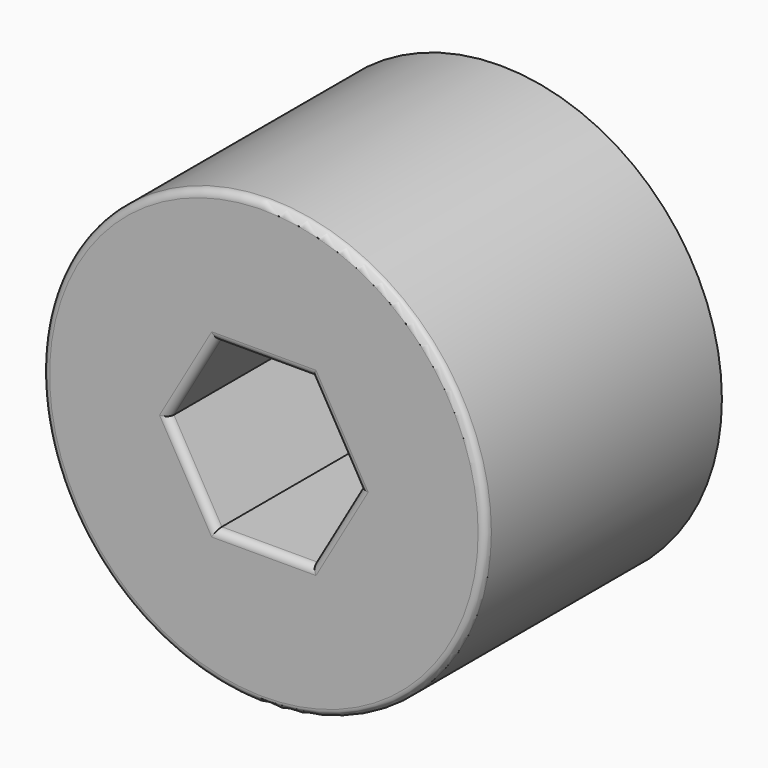
from build123d import *

# Parameters (mm, degrees)
F0_R     = 38.1
F1_DEPTH = 50.8
F3_DEPTH = 50.801
F4_R     = 1.27


with BuildPart() as f1:
    # F0 (on Front) → F1 (new body)
    with BuildSketch(Plane.XZ):
        Circle(F0_R)
    extrude(amount=F1_DEPTH)

    # F2 (on face) → F3 (cut, through all)
    with BuildSketch(Plane.XZ.offset(50.8)):
        Polygon((-8.2347917144, -14.263077639), (8.2347917144, -14.263077639), (16.4695834287, 0), (8.2347917144, 14.263077639), (-8.2347917144, 14.263077639), (-16.4695834287, 0), align=None)
    extrude(amount=-F3_DEPTH, mode=Mode.SUBTRACT)

    # F4
    f4_edges = [f1.edges().sort_by_distance(p)[0] for p in [
        (-38.1, -50.8, 0),
        (0, -50.8, -14.263078),
        (12.352188, -50.8, -7.131539),
        (12.352188, -50.8, 7.131539),
        (0, -50.8, 14.263078),
        (-12.352188, -50.8, 7.131539),
        (-12.352188, -50.8, -7.131539),
    ]]
    fillet(f4_edges, radius=F4_R)


solid = f1.part
